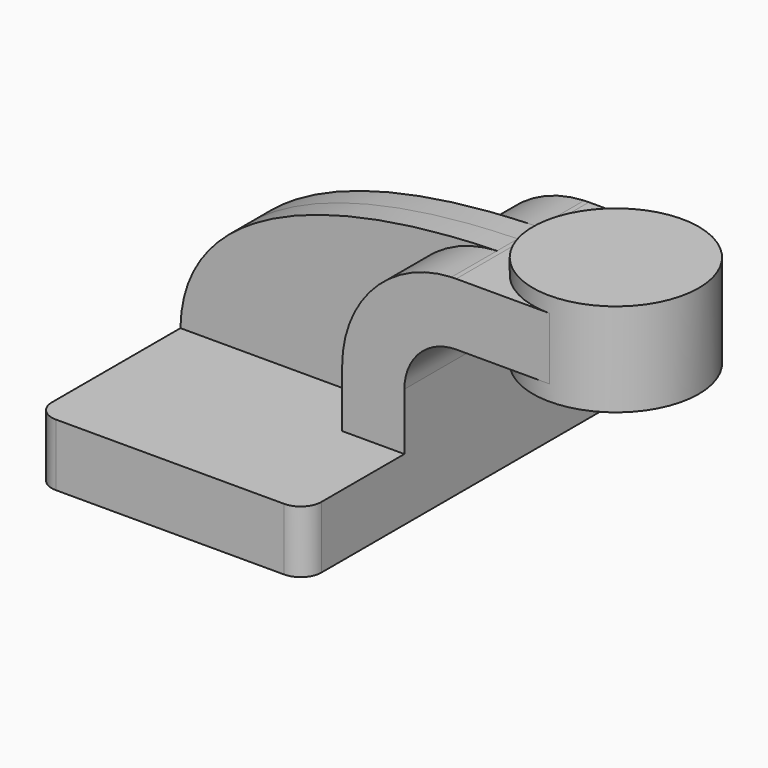
from build123d import *

# Parameters (mm, degrees)
F1_DEPTH = 63.5
F2_DEPTH = 25.4
F3_DEPTH = 25.4
F4_DEPTH = 7.9375
F0_W     = 25.4
F0_H     = 4.7498
F6_R     = 6.35


with BuildPart() as f1:
    # F0 (on Front) → F1 (new body, symmetric)
    with BuildSketch(Plane.XZ):
        Polygon((41.275, -9.525), (41.275, 9.525), (22.225, 9.525), (-41.275, 9.525), (-41.275, -9.525), align=None)
    extrude(amount=F1_DEPTH, both=True)

    # F0 (on Front) → F2 (join, symmetric)
    with BuildSketch(Plane.XZ):
        with BuildLine():
            Line((22.225, 9.525), (41.275, 9.525))
            Line((41.275, 9.525), (41.275, 27.0002))
            ThreePointArc((41.275, 27.0002), (45.9246798487, 38.2255201513), (57.15, 42.8752))
            Line((57.15, 42.8752), (60.325, 42.8752))
            Line((60.325, 42.8752), (60.325, 61.9252))
            Line((60.325, 61.9252), (57.15, 61.9252))
            add(Edge.make_bspline(
                [(55.6799774515, 61.8942490443), (56.1687606706, 61.9057674523), (56.6587732076, 61.9160843441), (57.15, 61.9252)],
                knots=[110.5461106931, 110.5461106931, 110.5461106931, 110.5461106931, 111.5045361635, 111.5045361635, 111.5045361635, 111.5045361635], degree=3))
            ThreePointArc((55.6799774515, 61.8942490443), (31.9399210383, 51.1705856764), (22.225, 27.0002))
            Line((22.225, 27.0002), (22.225, 9.525))
        make_face()
    extrude(amount=F2_DEPTH, both=True)

    # F0 (on Front) → F3 (join, symmetric)
    with BuildSketch(Plane.XZ):
        Polygon((60.325, 61.9252), (60.325, 42.8752), (85.725, 42.8752), (85.725, 52.3875), (85.725, 61.9252), align=None)
    extrude(amount=F3_DEPTH, both=True)

    # F0 (on Front) → F4 (join, symmetric)
    with BuildSketch(Plane.XZ):
        with BuildLine():
            Line((-41.275, 9.525), (22.225, 9.525))
            Line((22.225, 9.525), (22.225, 27.0002))
            ThreePointArc((22.225, 27.0002), (31.9399210383, 51.1705856764), (55.6799774515, 61.8942490443))
            add(Edge.make_bspline(
                [(-41.275, 9.525), (-40.7194862303, 43.2526218667), (-0.696950661, 60.5657000443), (55.6799774515, 61.8942490443)],
                knots=[0, 0, 0, 0, 110.5461106931, 110.5461106931, 110.5461106931, 110.5461106931], degree=3))
        make_face()
    extrude(amount=F4_DEPTH, both=True)

    # F0 (on Front) → F5 (revolve)
    with BuildSketch(Plane.XZ):
        Polygon((85.725, 52.3875), (85.725, 42.8752), (85.725, 38.1), (111.125, 38.1), (111.125, 61.9252), (85.725, 61.9252), align=None)
        with Locations((98.425, 64.3001)):
            Rectangle(F0_W, F0_H)
    revolve(axis=Axis((85.725, 0, 45.24375), (0, 0, 1)))

    # F6
    f6_edges = [f1.edges().sort_by_distance(p)[0] for p in [
        (-41.275, 63.5, 0),
        (-41.275, -63.5, 0),
        (41.275, -63.5, 0),
        (41.275, 63.5, 0),
    ]]
    fillet(f6_edges, radius=F6_R)


solid = f1.part
